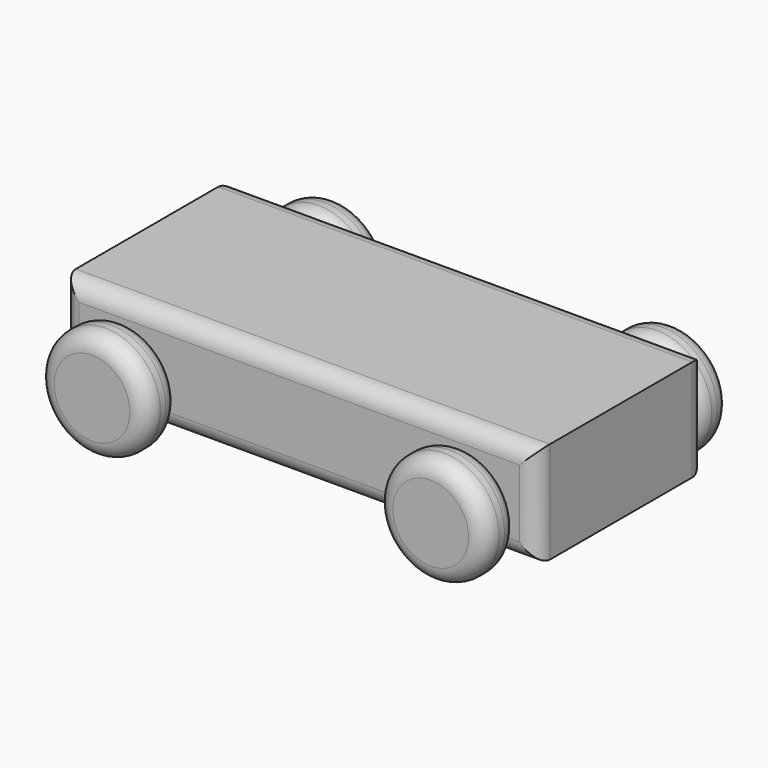
from build123d import *

# Parameters (mm, degrees)
F1_W     = 177.8
F1_H     = 38.1
F2_DEPTH = 39.6875
F4_R     = 20.537641
F5_DEPTH = 15.24
F6_R     = 6.35
F8_R     = 6.35


with BuildPart() as f2:
    # F1 (on Front) → F2 (new body, symmetric)
    with BuildSketch(Plane.XZ):
        Rectangle(F1_W, F1_H)
    extrude(amount=F2_DEPTH, both=True)

    # F8
    f8_edges = [f2.edges().sort_by_distance(p)[0] for p in [
        (88.9, -39.6875, 0),
        (0, -39.6875, 19.05),
        (-88.9, -39.6875, 0),
        (0, -39.6875, -19.05),
        (88.9, 39.6875, 0),
        (0, 39.6875, 19.05),
        (-88.9, 39.6875, 0),
        (0, 39.6875, -19.05),
    ]]
    fillet(f8_edges, radius=F8_R)


with BuildPart() as f5:
    # F4 (on offset) → F5 (new body)
    with BuildSketch(Plane.XZ.offset(42.2275)):
        with Locations((63.5, -5.497359)):
            Circle(F4_R)
    extrude(amount=F5_DEPTH)

    # F6
    f6_edges = [f5.edges().sort_by_distance(p)[0] for p in [
        (84.037641, -49.8475, -5.497359),
        (42.962359, -42.2275, -5.497359),
        (42.962359, -57.4675, -5.497359),
    ]]
    fillet(f6_edges, radius=F6_R)


with BuildPart() as f7_1:
    # F7: instance of F5
    add(f5.part.mirror(Plane.XZ))


with BuildPart() as f9_1:
    # F9: instance of F5
    add(f5.part.mirror(Plane.YZ))


with BuildPart() as f9_2:
    # F9: instance of F7_1
    add(f7_1.part.mirror(Plane.YZ))


solid = Compound([f2.part, f5.part, f7_1.part, f9_1.part, f9_2.part])
